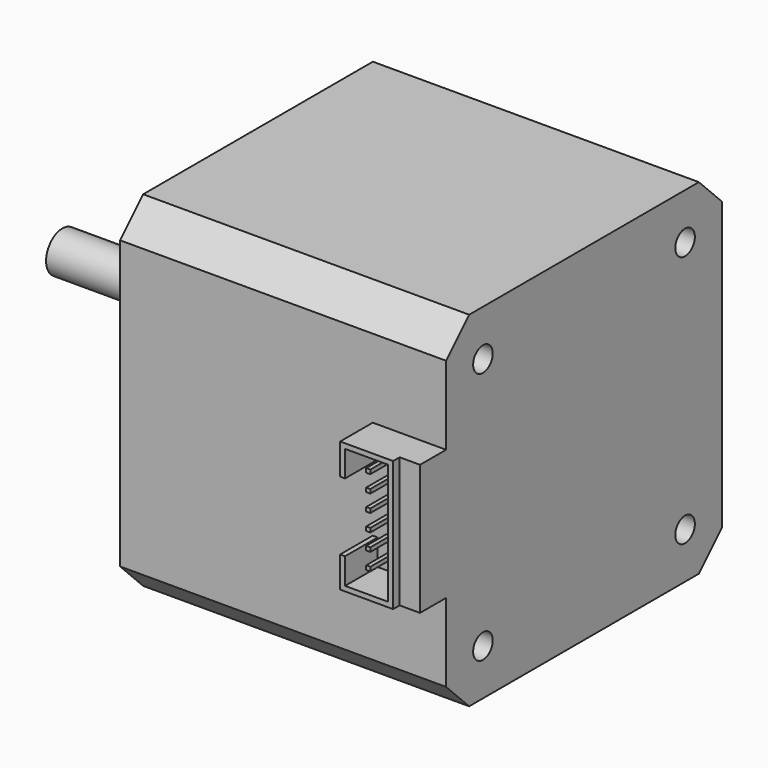
from build123d import *

# Parameters (mm, degrees)
PAD001_DEPTH         = 40
SKETCH018_R          = 1.5
HOLE_DEPTH           = 4.5
HOLE_TIPS_R          = 1.5
SKETCH002_R          = 1.5
HOLE001_DEPTH        = 4.5
HOLE001_TIPS_R       = 1.5
SKETCH003_R          = 11
PAD002_DEPTH         = 2
PAD003_DEPTH         = 22
SKETCH005_R          = 2.5
PAD004_DEPTH         = 3
SKETCH006_W          = 16
SKETCH006_H          = 4
PAD005_DEPTH         = 2.5
PAD006_DEPTH         = 5
SKETCH008_W          = 0.5
SKETCH008_H          = 0.5
PAD007_DEPTH         = 4
BODY_PLACEMENT_ANGLE = 90


with BuildPart() as part:
    # Sketch017 → Pad001 (new body)
    with BuildSketch(Plane.XY):
        Polygon((-17.614466, 21.15), (17.614466, 21.15), (21.15, 17.614466), (21.15, -17.614466), (17.614466, -21.15), (-17.614466, -21.15), (-21.15, -17.614466), (-21.15, 17.614466), align=None)
    extrude(amount=PAD001_DEPTH)

    # Sketch018 (on Face10 of Pad001) → Hole (cut)
    with BuildSketch(Plane.XY.offset(40)):
        with Locations((15.5, 15.5)):
            Circle(SKETCH018_R)
        with Locations((-15.5, 15.5)):
            Circle(SKETCH018_R)
        with Locations((-15.5, -15.5)):
            Circle(SKETCH018_R)
        with Locations((15.5, -15.5)):
            Circle(SKETCH018_R)
    extrude(amount=-HOLE_DEPTH, mode=Mode.SUBTRACT)

    # Hole tips → Hole tip 1 section 0
    with BuildSketch(Plane.XY.offset(35.5), mode=Mode.PRIVATE) as hole_tip_1_s0:
        with Locations((15.5, 15.5)):
            Circle(HOLE_TIPS_R)
    loft([hole_tip_1_s0.sketch, Vertex(15.5, 15.5, 34.598709)], mode=Mode.SUBTRACT)

    # Hole tips → Hole tip 2 section 0
    with BuildSketch(Plane.XY.offset(35.5), mode=Mode.PRIVATE) as hole_tip_2_s0:
        with Locations((-15.5, 15.5)):
            Circle(HOLE_TIPS_R)
    loft([hole_tip_2_s0.sketch, Vertex(-15.5, 15.5, 34.598709)], mode=Mode.SUBTRACT)

    # Hole tips → Hole tip 3 section 0
    with BuildSketch(Plane.XY.offset(35.5), mode=Mode.PRIVATE) as hole_tip_3_s0:
        with Locations((-15.5, -15.5)):
            Circle(HOLE_TIPS_R)
    loft([hole_tip_3_s0.sketch, Vertex(-15.5, -15.5, 34.598709)], mode=Mode.SUBTRACT)

    # Hole tips → Hole tip 4 section 0
    with BuildSketch(Plane.XY.offset(35.5), mode=Mode.PRIVATE) as hole_tip_4_s0:
        with Locations((15.5, -15.5)):
            Circle(HOLE_TIPS_R)
    loft([hole_tip_4_s0.sketch, Vertex(15.5, -15.5, 34.598709)], mode=Mode.SUBTRACT)

    # Sketch002 → Hole001 (cut)
    with BuildSketch(Plane.XY):
        with Locations((-15.5, 15.5)):
            Circle(SKETCH002_R)
        with Locations((-15.5, -15.5)):
            Circle(SKETCH002_R)
        with Locations((15.5, -15.5)):
            Circle(SKETCH002_R)
        with Locations((15.5, 15.5)):
            Circle(SKETCH002_R)
    extrude(amount=HOLE001_DEPTH, mode=Mode.SUBTRACT)

    # Hole001 tips → Hole001 tip 1 section 0
    with BuildSketch(Plane.XY.offset(4.5), mode=Mode.PRIVATE) as hole001_tip_1_s0:
        with Locations((-15.5, 15.5)):
            Circle(HOLE001_TIPS_R)
    loft([hole001_tip_1_s0.sketch, Vertex(-15.5, 15.5, 5.401291)], mode=Mode.SUBTRACT)

    # Hole001 tips → Hole001 tip 2 section 0
    with BuildSketch(Plane.XY.offset(4.5), mode=Mode.PRIVATE) as hole001_tip_2_s0:
        with Locations((-15.5, -15.5)):
            Circle(HOLE001_TIPS_R)
    loft([hole001_tip_2_s0.sketch, Vertex(-15.5, -15.5, 5.401291)], mode=Mode.SUBTRACT)

    # Hole001 tips → Hole001 tip 3 section 0
    with BuildSketch(Plane.XY.offset(4.5), mode=Mode.PRIVATE) as hole001_tip_3_s0:
        with Locations((15.5, -15.5)):
            Circle(HOLE001_TIPS_R)
    loft([hole001_tip_3_s0.sketch, Vertex(15.5, -15.5, 5.401291)], mode=Mode.SUBTRACT)

    # Hole001 tips → Hole001 tip 4 section 0
    with BuildSketch(Plane.XY.offset(4.5), mode=Mode.PRIVATE) as hole001_tip_4_s0:
        with Locations((15.5, 15.5)):
            Circle(HOLE001_TIPS_R)
    loft([hole001_tip_4_s0.sketch, Vertex(15.5, 15.5, 5.401291)], mode=Mode.SUBTRACT)

    # Sketch003 (on Face5 of Hole001) → Pad002 (join)
    with BuildSketch(Plane.XY.offset(40)):
        Circle(SKETCH003_R)
    extrude(amount=PAD002_DEPTH)

    # Sketch004 (on Face27 of Pad002) → Pad003 (join)
    with BuildSketch(Plane.XY.offset(42)):
        with BuildLine():
            ThreePointArc((-1.5, 2), (0, -2.5), (1.5, 2))
            Line((-1.5, 2), (1.5, 2))
        make_face()
    extrude(amount=PAD003_DEPTH)

    # Sketch005 (on Face27 of Pad002) → Pad004 (join)
    with BuildSketch(Plane.XY.offset(42)):
        Circle(SKETCH005_R)
    extrude(amount=PAD004_DEPTH)

    # Sketch006 (on Face4 of Pad004) → Pad005 (join)
    with BuildSketch(Plane(origin=(0, 0, 0), x_dir=(1, 0, 0), z_dir=(0, 0, -1))):
        with Locations((0, 23.15)):
            Rectangle(SKETCH006_W, SKETCH006_H)
    extrude(amount=-PAD005_DEPTH)

    # Sketch007 (on Face10 of Pad005) → Pad006 (join)
    with BuildSketch(Plane.XZ.offset(21.15)):
        Polygon((-4.2, 9), (-8, 9), (-8, 2.5), (8, 2.5), (8, 9), (4.2, 9), (4.2, 8.4), (7.4, 8.4), (7.4, 3.1), (-7.4, 3.1), (-7.4, 8.4), (-4.2, 8.4), align=None)
    extrude(amount=PAD006_DEPTH)

    # Sketch008 (on Face10 of Pad006) → Pad007 (join)
    with BuildSketch(Plane.XZ.offset(21.15)):
        with Locations((-5.25, 6.35)):
            Rectangle(SKETCH008_W, SKETCH008_H)
        with Locations((-3.15, 6.35)):
            Rectangle(SKETCH008_W, SKETCH008_H)
        with Locations((-1.05, 6.35)):
            Rectangle(SKETCH008_W, SKETCH008_H)
        with Locations((1.05, 6.35)):
            Rectangle(SKETCH008_W, SKETCH008_H)
        with Locations((3.15, 6.35)):
            Rectangle(SKETCH008_W, SKETCH008_H)
        with Locations((5.25, 6.35)):
            Rectangle(SKETCH008_W, SKETCH008_H)
    extrude(amount=PAD007_DEPTH)


with BuildPart() as part_1:
    # Body placement: moved
    add(part.part.rotate(Axis((0, 0, 0), (0, -1, 0)), BODY_PLACEMENT_ANGLE))


solid = part_1.part
